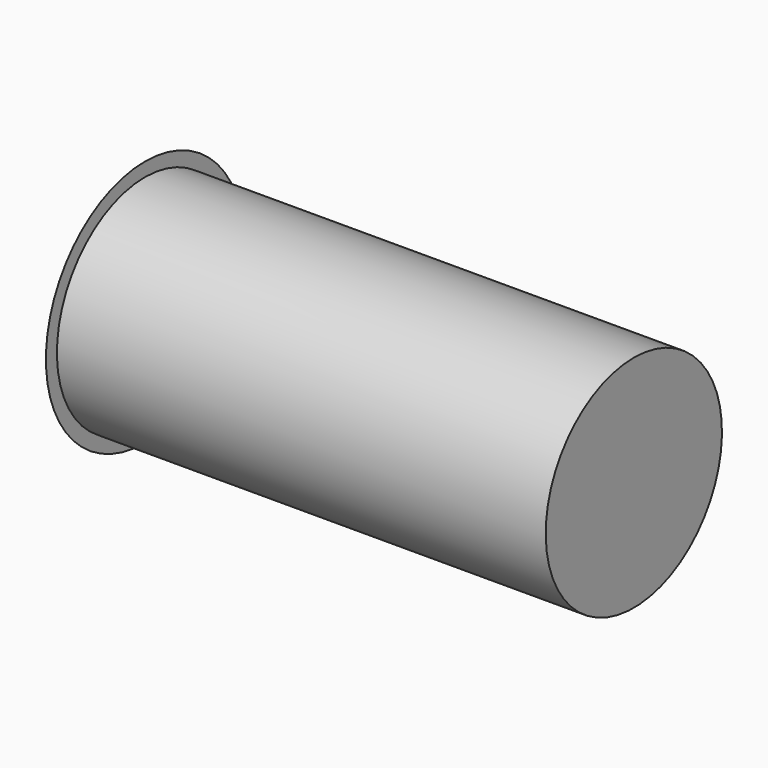
from build123d import *

# Parameters (mm, degrees)
F2_R     = 6
F2_R_2   = 5.75
F3_DEPTH = 1
F4_R     = 0.2


with BuildPart() as f1:
    # F0 (on Front) → F1 (revolve)
    with BuildSketch(Plane.XZ):
        Polygon((0, 6), (0, 0), (37, 0), (37, 8), (1.5, 8), (1.5, 9), align=None)
    revolve(axis=Axis((18.5, 0, 0), (-1, 0, 0)))

    # F2 (on face) → F3 (cut)
    with BuildSketch(Plane(origin=(0, 0, 0), x_dir=(0, -1, 0), z_dir=(-1, 0, 0))):
        Circle(F2_R)
        Circle(F2_R_2, mode=Mode.SUBTRACT)
    extrude(amount=-F3_DEPTH, mode=Mode.SUBTRACT)

    # F4
    f4_edges = [f1.edges().sort_by_distance(p)[0] for p in [
        (0, 4.242641, -4.242641),
        (0, -4.242641, 4.242641),
        (0, 5.75, 0),
    ]]
    fillet(f4_edges, radius=F4_R)


solid = f1.part
